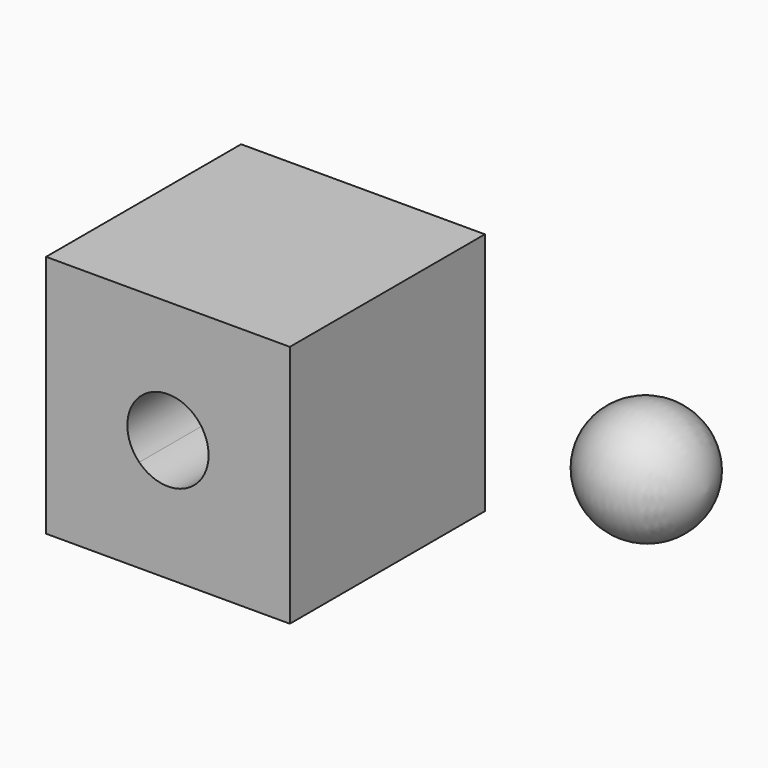
from build123d import *

# Parameters (mm, degrees)
F1_DEPTH = 76.2


with BuildPart() as f1:
    # F0 (on Front) → F1 (new body)
    with BuildSketch(Plane.XZ):
        with BuildLine():
            Line((-34.377928, 1.220902), (-63.497671, -27.898842))
            Line((-63.497671, -27.898842), (12.702329, -27.898842))
            Line((12.702329, -27.898842), (-16.417415, 1.220902))
            ThreePointArc((-16.417415, 1.220902), (-25.397671, -2.498842), (-34.377928, 1.220902))
        make_face()
        with BuildLine():
            Line((-63.497671, 48.301158), (-63.497671, -27.898842))
            Line((-63.497671, -27.898842), (-34.377928, 1.220902))
            ThreePointArc((-34.377928, 1.220902), (-38.097671, 10.201158), (-34.377928, 19.181414))
            Line((-34.377928, 19.181414), (-63.497671, 48.301158))
        make_face()
        with BuildLine():
            Line((-16.417415, 1.220902), (12.702329, -27.898842))
            Line((12.702329, -27.898842), (12.702329, 48.301158))
            Line((12.702329, 48.301158), (-16.417415, 19.181414))
            ThreePointArc((-16.417415, 19.181414), (-13.664401, 15.061238), (-12.697671, 10.201158))
            ThreePointArc((-12.697671, 10.201158), (-13.664401, 5.341079), (-16.417415, 1.220902))
        make_face()
        with BuildLine():
            Line((12.702329, 48.301158), (-63.497671, 48.301158))
            Line((-63.497671, 48.301158), (-34.377928, 19.181414))
            ThreePointArc((-34.377928, 19.181414), (-25.397671, 22.901158), (-16.417415, 19.181414))
            Line((-16.417415, 19.181414), (12.702329, 48.301158))
        make_face()
    extrude(amount=F1_DEPTH)


with BuildPart() as f3:
    # F2 (on Front) → F3 (revolve)
    with BuildSketch(Plane.XZ):
        with BuildLine():
            ThreePointArc((82.200007, 0), (63.150007, 18.102927), (44.100007, 0))
            Line((44.100007, 0), (82.200007, 0))
        make_face()
    revolve(axis=Axis((63.150007, 0, 0), (1, 0, 0)))


solid = Compound([f1.part, f3.part])
